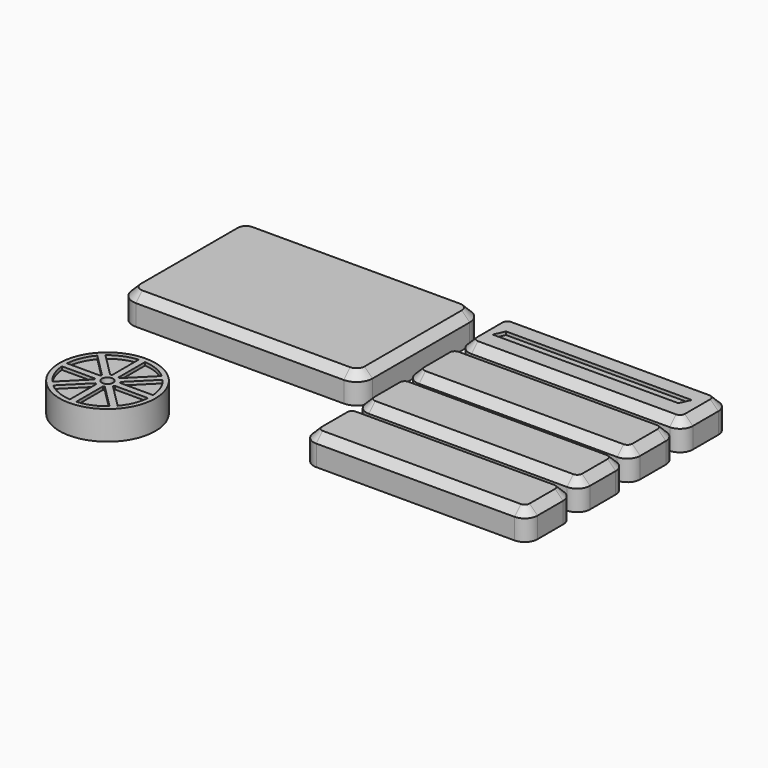
from build123d import *

# Parameters (mm, degrees)
F1_DEPTH = 18
F2_SIZE  = 5
F5_DEPTH = 2
F6_R     = 30
F6_R_2   = 3.5
F7_DEPTH = 18
F9_DEPTH = 2


with BuildPart() as f1:
    # F0 (on Top) → F1 (new body)
    with BuildSketch(Plane.XY):
        with BuildLine():
            Line((53.86152, 52.304515), (-76.13848, 52.304515))
            ThreePointArc((-76.13848, 52.304515), (-83.209548, 49.375583), (-86.13848, 42.304515))
            Line((-86.13848, 42.304515), (-86.13848, -33.695485))
            ThreePointArc((-86.13848, -33.695485), (-83.209548, -40.766553), (-76.13848, -43.695485))
            Line((-76.13848, -43.695485), (53.86152, -43.695485))
            ThreePointArc((53.86152, -43.695485), (60.932588, -40.766553), (63.86152, -33.695485))
            Line((63.86152, -33.695485), (63.86152, 42.304515))
            ThreePointArc((63.86152, 42.304515), (60.932588, 49.375583), (53.86152, 52.304515))
        make_face()
        with BuildLine():
            Line((209.443026, 52.79577), (85.443026, 52.79577))
            ThreePointArc((85.443026, 52.79577), (79.786172, 50.452624), (77.443026, 44.79577))
            Line((77.443026, 44.79577), (77.443026, 24.79577))
            ThreePointArc((77.443026, 24.79577), (79.786172, 19.138916), (85.443026, 16.79577))
            Line((85.443026, 16.79577), (209.443026, 16.79577))
            ThreePointArc((209.443026, 16.79577), (215.09988, 19.138916), (217.443026, 24.79577))
            Line((217.443026, 24.79577), (217.443026, 44.79577))
            ThreePointArc((217.443026, 44.79577), (215.09988, 50.452624), (209.443026, 52.79577))
        make_face()
        with BuildLine():
            Line((209.103125, 12.1079), (85.103125, 12.1079))
            ThreePointArc((85.103125, 12.1079), (79.446271, 9.764754), (77.103125, 4.1079))
            Line((77.103125, 4.1079), (77.103125, -15.8921))
            ThreePointArc((77.103125, -15.8921), (79.446271, -21.548954), (85.103125, -23.8921))
            Line((85.103125, -23.8921), (209.103125, -23.8921))
            ThreePointArc((209.103125, -23.8921), (214.759979, -21.548954), (217.103125, -15.8921))
            Line((217.103125, -15.8921), (217.103125, 4.1079))
            ThreePointArc((217.103125, 4.1079), (214.759979, 9.764754), (209.103125, 12.1079))
        make_face()
        with BuildLine():
            Line((209.782927, -27.965898), (85.782927, -27.965898))
            ThreePointArc((85.782927, -27.965898), (80.126073, -30.309044), (77.782927, -35.965898))
            Line((77.782927, -35.965898), (77.782927, -55.965898))
            ThreePointArc((77.782927, -55.965898), (80.126073, -61.622753), (85.782927, -63.965898))
            Line((85.782927, -63.965898), (209.782927, -63.965898))
            ThreePointArc((209.782927, -63.965898), (215.439781, -61.622753), (217.782927, -55.965898))
            Line((217.782927, -55.965898), (217.782927, -35.965898))
            ThreePointArc((217.782927, -35.965898), (215.439781, -30.309044), (209.782927, -27.965898))
        make_face()
        with BuildLine():
            Line((209.443026, -68.653768), (85.443026, -68.653768))
            ThreePointArc((85.443026, -68.653768), (79.786172, -70.996914), (77.443026, -76.653768))
            Line((77.443026, -76.653768), (77.443026, -96.653768))
            ThreePointArc((77.443026, -96.653768), (79.786172, -102.310622), (85.443026, -104.653768))
            Line((85.443026, -104.653768), (209.443026, -104.653768))
            ThreePointArc((209.443026, -104.653768), (215.09988, -102.310622), (217.443026, -96.653768))
            Line((217.443026, -96.653768), (217.443026, -76.653768))
            ThreePointArc((217.443026, -76.653768), (215.09988, -70.996914), (209.443026, -68.653768))
        make_face()
    extrude(amount=F1_DEPTH)

    # F2
    f2_edges = [f1.edges().sort_by_distance(p)[0] for p in [
        (-11.13848, 52.304515, 18),
        (-83.209548, 49.375583, 18),
        (-86.13848, 4.304515, 18),
        (-83.209548, -40.766553, 18),
        (-11.13848, -43.695485, 18),
        (60.932588, -40.766553, 18),
        (63.86152, 4.304515, 18),
        (60.932588, 49.375583, 18),
        (147.443026, 52.79577, 18),
        (79.786172, 50.452624, 18),
        (77.443026, 34.79577, 18),
        (79.786172, 19.138916, 18),
        (147.443026, 16.79577, 18),
        (215.09988, 19.138916, 18),
        (217.443026, 34.79577, 18),
        (215.09988, 50.452624, 18),
        (147.103125, 12.1079, 18),
        (79.446271, 9.764754, 18),
        (77.103125, -5.8921, 18),
        (79.446271, -21.548954, 18),
        (147.103125, -23.8921, 18),
        (214.759979, -21.548954, 18),
        (217.103125, -5.8921, 18),
        (214.759979, 9.764754, 18),
        (147.782927, -27.965898, 18),
        (80.126073, -30.309044, 18),
        (77.782927, -45.965898, 18),
        (80.126073, -61.622753, 18),
        (147.782927, -63.965898, 18),
        (215.439781, -61.622753, 18),
        (217.782927, -45.965898, 18),
        (215.439781, -30.309044, 18),
        (147.443026, -68.653768, 18),
        (79.786172, -70.996914, 18),
        (77.443026, -86.653768, 18),
        (79.786172, -102.310622, 18),
        (147.443026, -104.653768, 18),
        (215.09988, -102.310622, 18),
        (217.443026, -86.653768, 18),
        (215.09988, -70.996914, 18),
    ]]
    chamfer(f2_edges, length=F2_SIZE)

    # F4 (on face) → F5 (cut)
    with BuildSketch(Plane.XY.offset(18)):
        Polygon((205.875951, 38.439858), (89.673807, 38.439858), (86.671706, 31.753361), (202.87385, 31.753361), align=None)
    extrude(amount=-F5_DEPTH, mode=Mode.SUBTRACT)


with BuildPart() as f7:
    # F6 (on Top) → F7 (new body)
    with BuildSketch(Plane.XY):
        with Locations((-29.795188, -123.92322)):
            Circle(F6_R)
        with Locations((-29.795188, -123.92322)):
            Circle(F6_R_2, mode=Mode.SUBTRACT)
    extrude(amount=F7_DEPTH)

    # F8 (on face) → F9 (cut)
    with BuildSketch(Plane.XY.offset(18)):
        with BuildLine():
            Line((-26.836188, -118.135792), (-12.169969, -103.469573))
            ThreePointArc((-12.169969, -103.469573), (-19.462736, -98.978472), (-27.795188, -96.997396))
            Line((-27.795188, -96.997396), (-27.795188, -117.738561))
            ThreePointArc((-27.795188, -117.738561), (-27.307746, -117.918003), (-26.836188, -118.135792))
        make_face()
        with BuildLine():
            Line((-47.420408, -103.469573), (-32.754189, -118.135792))
            ThreePointArc((-32.754189, -118.135792), (-32.282631, -117.918003), (-31.795188, -117.738561))
            Line((-31.795188, -117.738561), (-31.795188, -96.997396))
            ThreePointArc((-31.795188, -96.997396), (-40.127641, -98.978472), (-47.420408, -103.469573))
        make_face()
        with BuildLine():
            ThreePointArc((-2.869364, -121.92322), (-4.850441, -113.590767), (-9.341542, -106.298001))
            Line((-9.341542, -106.298001), (-24.007761, -120.964219))
            ThreePointArc((-24.007761, -120.964219), (-23.789971, -121.435777), (-23.61053, -121.92322))
            Line((-23.61053, -121.92322), (-2.869364, -121.92322))
        make_face()
        with BuildLine():
            Line((-24.007761, -126.88222), (-9.341542, -141.548439))
            ThreePointArc((-9.341542, -141.548439), (-4.850441, -134.255672), (-2.869364, -125.92322))
            Line((-2.869364, -125.92322), (-23.61053, -125.92322))
            ThreePointArc((-23.61053, -125.92322), (-23.789971, -126.410662), (-24.007761, -126.88222))
        make_face()
        with BuildLine():
            ThreePointArc((-27.795188, -150.849044), (-19.462736, -148.867967), (-12.169969, -144.376866))
            Line((-12.169969, -144.376866), (-26.836188, -129.710647))
            ThreePointArc((-26.836188, -129.710647), (-27.307746, -129.928437), (-27.795188, -130.107878))
            Line((-27.795188, -130.107878), (-27.795188, -150.849044))
        make_face()
        with BuildLine():
            Line((-32.754189, -129.710647), (-47.420408, -144.376866))
            ThreePointArc((-47.420408, -144.376866), (-40.127641, -148.867967), (-31.795188, -150.849044))
            Line((-31.795188, -150.849044), (-31.795188, -130.107878))
            ThreePointArc((-31.795188, -130.107878), (-32.282631, -129.928437), (-32.754189, -129.710647))
        make_face()
        with BuildLine():
            ThreePointArc((-35.582616, -126.88222), (-35.800405, -126.410662), (-35.979847, -125.92322))
            Line((-35.979847, -125.92322), (-56.721012, -125.92322))
            ThreePointArc((-56.721012, -125.92322), (-54.739936, -134.255672), (-50.248835, -141.548439))
            Line((-50.248835, -141.548439), (-35.582616, -126.88222))
        make_face()
        with BuildLine():
            Line((-56.721012, -121.92322), (-35.979847, -121.92322))
            ThreePointArc((-35.979847, -121.92322), (-35.800405, -121.435777), (-35.582616, -120.964219))
            Line((-35.582616, -120.964219), (-50.248835, -106.298001))
            ThreePointArc((-50.248835, -106.298001), (-54.739936, -113.590767), (-56.721012, -121.92322))
        make_face()
    extrude(amount=-F9_DEPTH, mode=Mode.SUBTRACT)


solid = Compound([f1.part, f7.part])
